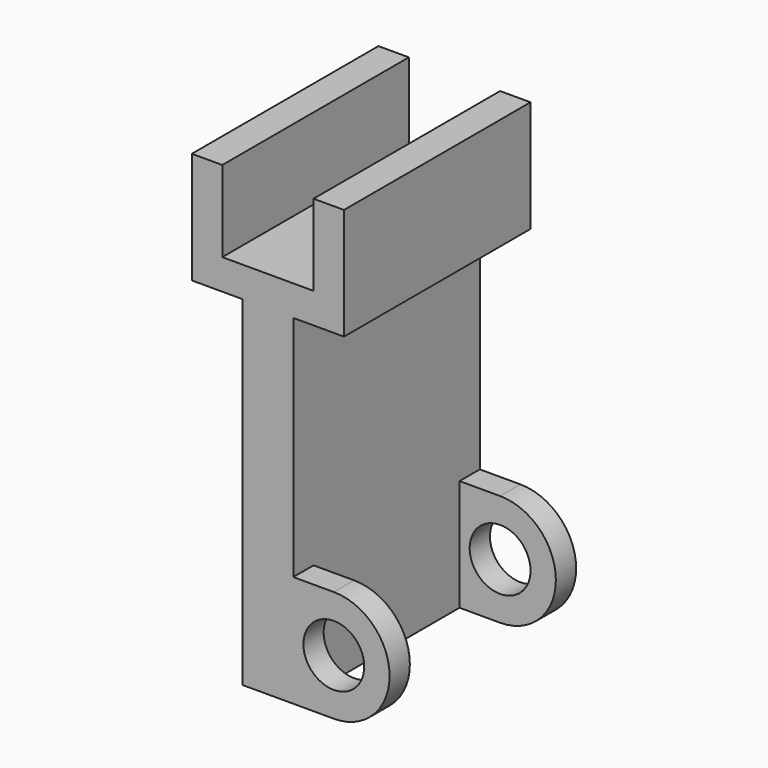
from build123d import *

# Parameters (mm, degrees)
F0_R     = 6
F1_DEPTH = 46
F2_W     = 36
F2_H     = 28.489591
F3_DEPTH = 25


with BuildPart() as f1:
    # F0 (on Front) → F1 (new body)
    with BuildSketch(Plane.XZ):
        with BuildLine():
            Line((5, -45), (5, 0))
            Line((5, 0), (15, 0))
            Line((15, 0), (15, 22))
            Line((15, 22), (9, 22))
            Line((9, 22), (9, 6))
            Line((9, 6), (0, 6))
            Line((0, 6), (-9, 6))
            Line((-9, 6), (-9, 22))
            Line((-9, 22), (-15, 22))
            Line((-15, 22), (-15, 0))
            Line((-15, 0), (-5, 0))
            Line((-5, 0), (-5, -67))
            Line((-5, -67), (5, -67))
            Line((5, -67), (13, -67))
            ThreePointArc((13, -67), (24, -56), (13, -45))
            Line((13, -45), (5, -45))
        make_face()
        with Locations((13, -56)):
            Circle(F0_R, mode=Mode.SUBTRACT)
    extrude(amount=F1_DEPTH)


with BuildPart() as f3:
    # F2 (on face) → F3 (new body)
    with BuildSketch(Plane.YZ.offset(5)):
        with Locations((-23, -59.244795)):
            Rectangle(F2_W, F2_H)
    extrude(amount=F3_DEPTH)


with BuildPart() as f1_1:
    add(f1.part)

    # F4: cut F3
    add(f3.part, mode=Mode.SUBTRACT)


solid = f1_1.part
